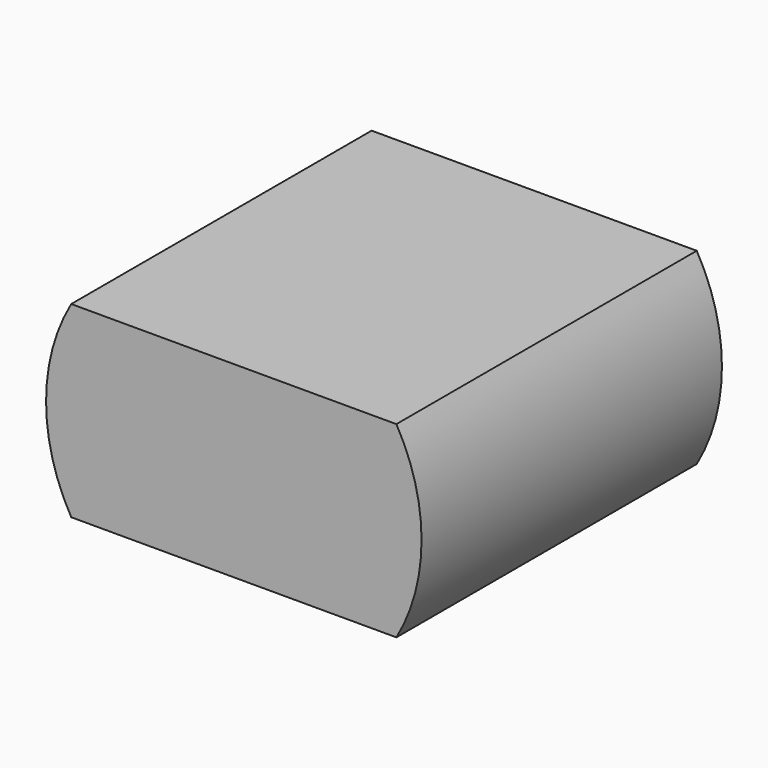
from build123d import *

# Parameters (mm, degrees)
F0_R     = 38.1
F1_DEPTH = 127
F3_W     = 76.2
F3_H     = 38.1
F4_DEPTH = 101.6


with BuildPart() as f1:
    # F0 (on Front) → F1 (new body)
    with BuildSketch(Plane.XZ):
        Circle(F0_R)
    extrude(amount=F1_DEPTH)

    # F3 (on Right) → F4 (intersect, symmetric)
    with BuildSketch(Plane.YZ):
        with Locations((-74.200545, 0)):
            Rectangle(F3_W, F3_H)
    extrude(amount=F4_DEPTH, both=True, mode=Mode.INTERSECT)


solid = f1.part
